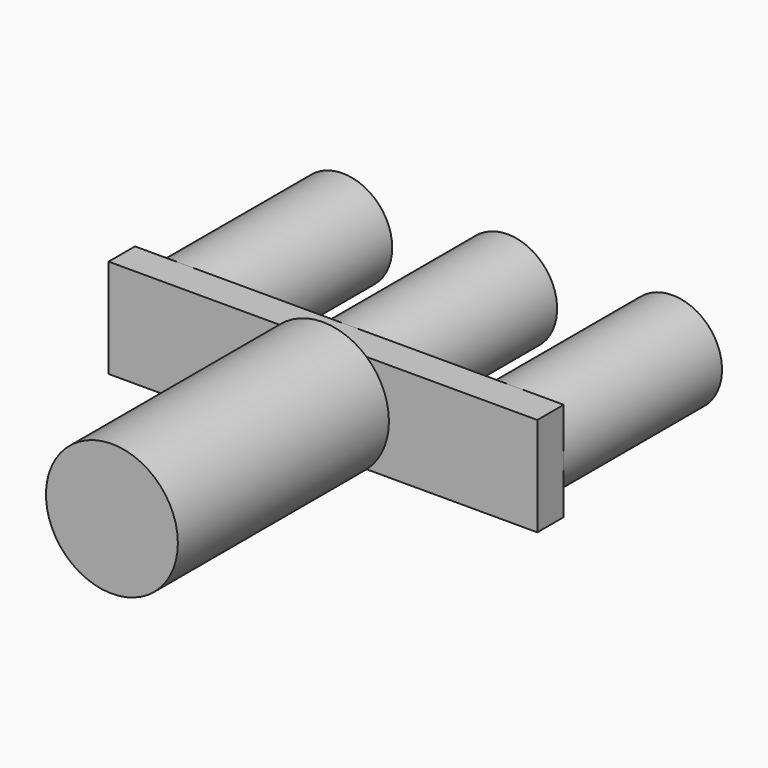
from build123d import *

# Parameters (mm, degrees)
F0_W     = 65
F0_H     = 15
F1_DEPTH = 5
F2_R     = 7.5
F3_DEPTH = 30
F4_R     = 10
F5_DEPTH = 40


with BuildPart() as f1:
    # F0 (on Front) → F1 (new body)
    with BuildSketch(Plane.XZ):
        Rectangle(F0_W, F0_H)
    extrude(amount=F1_DEPTH)

    # F2 (on face) → F3 (join)
    with BuildSketch(Plane(origin=(0, 0, 0), x_dir=(-1, 0, 0), z_dir=(0, 1, 0))):
        with BuildLine():
            ThreePointArc((-7.5, 0), (0, -7.5), (7.5, 0))
            ThreePointArc((7.5, 0), (0, 7.5), (-7.5, 0))
        make_face()
        with Locations((-25, 0)):
            Circle(F2_R)
        with BuildLine():
            ThreePointArc((32.5, 0), (25, 7.5), (17.5, 0))
            ThreePointArc((17.5, 0), (25, -7.5), (32.5, 0))
        make_face()
    extrude(amount=F3_DEPTH)

    # F4 (on face) → F5 (join)
    with BuildSketch(Plane.XZ.offset(5)):
        Circle(F4_R)
    extrude(amount=F5_DEPTH)


solid = f1.part
